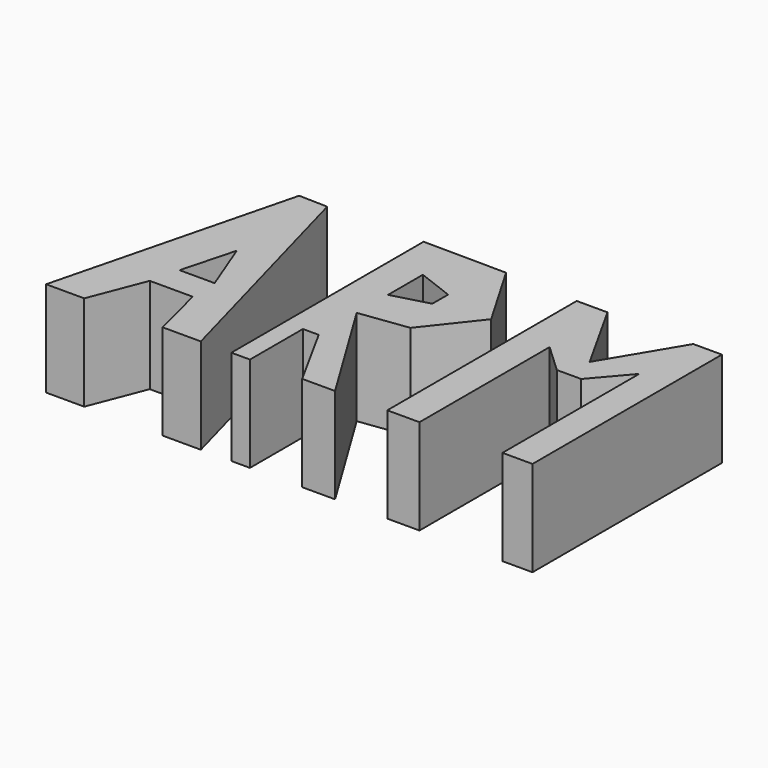
from build123d import *

# Parameters (mm, degrees)
F1_DEPTH = 25.4


with BuildPart() as f1:
    # F0 (on Top) → F1 (new body)
    with BuildSketch(Plane.XY):
        Polygon((-47.625023, 33.528017), (-55.245023, 33.718516), (-71.437532, -30.289512), (-61.277532, -30.289512), (-55.562533, -15.621007), (-44.132533, -15.621007), (-40.386017, -30.289512), (-30.226017, -30.289512), align=None)
        Polygon((-44.386521, -8.001003), (-53.721027, -8.001003), (-49.911025, 6.286503), align=None, mode=Mode.SUBTRACT)
        Polygon((-22.098009, 33.718516), (-22.098009, -30.289512), (-17.145008, -30.289512), (-17.145008, -12.663102), (-12.929891, -12.663102), (-3.238501, -30.289512), (5.524502, -30.289512), (-12.954006, 0), (0, 1.714501), (10.668006, 15.240005), (0, 33.528017), align=None)
        Polygon((-12.929891, 10.387408), (-12.929891, 22.007915), (-3.238501, 18.288008), (-3.238501, 13.029637), align=None, mode=Mode.SUBTRACT)
        Polygon((19.431011, 32.766013), (19.431011, -30.289512), (28.003515, -30.289512), (28.003515, 13.029637), (35.623516, 5.905503), (42.100515, 5.905503), (50.10152, 15.240005), (50.10152, -30.289512), (58.102526, -30.289512), (58.102526, 32.766013), (50.482522, 32.766013), (38.671515, 13.029637), (27.622511, 32.766013), align=None)
    extrude(amount=F1_DEPTH)


solid = f1.part
